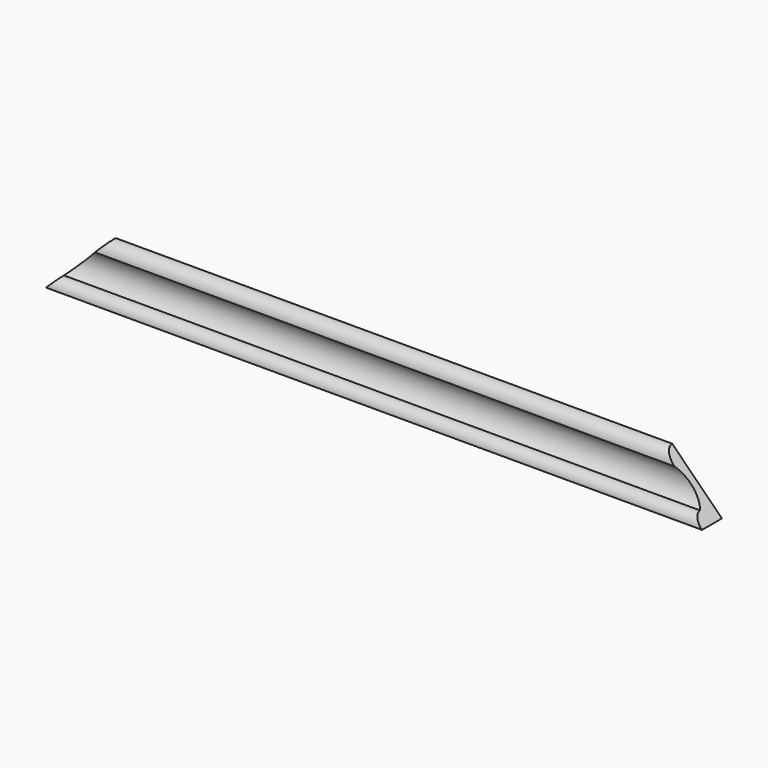
from build123d import *

# Parameters (mm, degrees)
PAD008_DEPTH = 40
PAD007_DEPTH = 40
PAD_DEPTH    = 396


with BuildPart() as body_decoration_bottom_cut_right:
    # Sketch008 → Pad008 (new body)
    with BuildSketch(Plane(origin=(400, -18, 0), x_dir=(1, 0, 0), z_dir=(0, -1, 0))):
        Polygon((-40, 40), (0, 0), (0, 40), align=None)
    extrude(amount=PAD008_DEPTH)


with BuildPart() as body_decoration_bottom_cut_left:
    # Sketch007 → Pad007 (new body)
    with BuildSketch(Plane(origin=(4, -18, 0), x_dir=(1, 0, 0), z_dir=(0, -1, 0))):
        Polygon((0, 0), (40, 40), (0, 40), align=None)
    extrude(amount=PAD007_DEPTH)


with BuildPart() as cut_decoration_bottom:
    # Sketch → Pad (new body)
    with BuildSketch(Plane(origin=(4, -18, 0), x_dir=(0, 1, 0), z_dir=(1, 0, 0))):
        with BuildLine():
            Line((0, 30), (0, 0))
            Line((0, 0), (-15, 0))
            ThreePointArc((-9, 6), (-13.242641, 4.242641), (-15, 0))
            ThreePointArc((-9, 6), (-4.435882, 14.080692), (-7, 23))
            ThreePointArc((0, 30), (-4.949747, 27.949747), (-7, 23))
        make_face()
    extrude(amount=PAD_DEPTH)

    # Cut: cut Body, Decoration, Bottom, Cut, Left
    add(body_decoration_bottom_cut_left.part, mode=Mode.SUBTRACT)

    # Cut001: cut Body, Decoration, Bottom, Cut, Right
    add(body_decoration_bottom_cut_right.part, mode=Mode.SUBTRACT)


solid = cut_decoration_bottom.part
